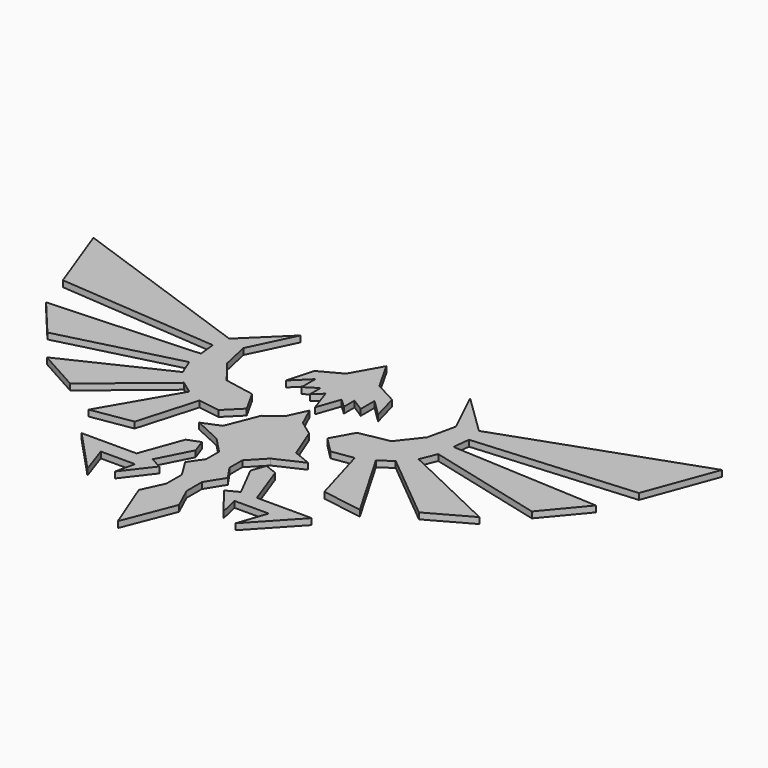
from build123d import *

# Parameters (mm, degrees)
F1_DEPTH = 0.79375


with BuildPart() as f1:
    # F0 (on Top) → F1 (new body)
    with BuildSketch(Plane.XY):
        Polygon((2.151705, 16.681533), (0, 20.498225), (-2.151705, 16.681533), (-5.024946, 15.137702), (-5.968398, 11.706967), (-3.824189, 13.808292), (-3.824189, 11.578314), (-2.194589, 12.607534), (-2.194589, 10.892167), (-1.036716, 11.964272), (0, 8.962379), (1.036716, 11.964272), (2.194589, 10.892167), (2.194589, 12.607534), (3.824189, 11.578314), (3.824189, 13.808292), (5.968398, 11.706967), (5.024946, 15.137702), align=None)
        Polygon((1.158175, 5.55735), (0, 8.076103), (-1.158175, 5.55735), (-3.098295, 4.127788), (-4.732081, 0), (-7.046611, -0.943755), (-3.476582, -2.596304), (-1.502424, -4.672573), (-1.502424, -6.748843), (-2.7618, -8.586852), (-1.298201, -10.935418), (-1.298201, -13.436744), (-2.607217, -16.264636), (0, -22.920493), (2.607217, -16.264636), (1.298201, -13.436744), (1.298201, -10.935418), (2.7618, -8.586852), (1.502424, -6.748843), (1.502424, -4.672573), (3.476582, -2.596304), (7.046611, -0.943755), (4.732081, 0), (3.098295, 4.127788), align=None)
        Polygon((-5.798376, -4.716278), (-7.780868, -10.165637), (-14.88078, -10.165637), (-9.579851, -15.852088), (-10.864925, -12.093248), (-6.431421, -12.093248), (-7.013198, -14.623501), (-4.199942, -10.962648), (-5.718788, -10.165637), (-3.54007, -5.894522), (-4.174995, -4.105965), align=None)
        Polygon((-10.658663, 8.003411), (-12.947127, 10.929634), (-13.747742, 14.561193), (-10.97993, 20.313431), (-16.154537, 15.283232), (-40.649548, 23.948327), (-37.255723, 14.764503), (-16.571833, 13.145411), (-16.328968, 10.939399), (-35.555679, 9.927467), (-31.330302, 4.86337), (-16.112491, 8.757975), (-15.252227, 6.648204), (-27.971571, 0.586666), (-22.553699, -2.425472), (-13.689173, 4.900917), (-12.0646, 3.715415), (-17.534515, -5.704132), (-12.272468, -4.854108), (-10.046218, 2.836575), (-7.243132, 2.411495), (-5.211444, 4.443184), (-6.785735, 7.271308), align=None)
        Polygon((7.780868, -10.165637), (5.798376, -4.716278), (4.174995, -4.105965), (3.54007, -5.894522), (5.718788, -10.165637), (4.199942, -10.962648), (7.013198, -14.623501), (6.431421, -12.093248), (10.864925, -12.093248), (9.579851, -15.852088), (14.88078, -10.165637), align=None)
        Polygon((12.0646, 3.715415), (13.689173, 4.900917), (22.553699, -2.425472), (27.971571, 0.586666), (15.252227, 6.648204), (16.112491, 8.757975), (31.330302, 4.86337), (35.555679, 9.927467), (16.328968, 10.939399), (16.571833, 13.145411), (37.255723, 14.764503), (40.649548, 23.948327), (16.154537, 15.283232), (10.97993, 20.313431), (13.747742, 14.561193), (12.947127, 10.929634), (10.658663, 8.003411), (6.785735, 7.271308), (5.211444, 4.443184), (7.243132, 2.411495), (10.046218, 2.836575), (12.272468, -4.854108), (17.534515, -5.704132), align=None)
    extrude(amount=F1_DEPTH)


solid = f1.part
